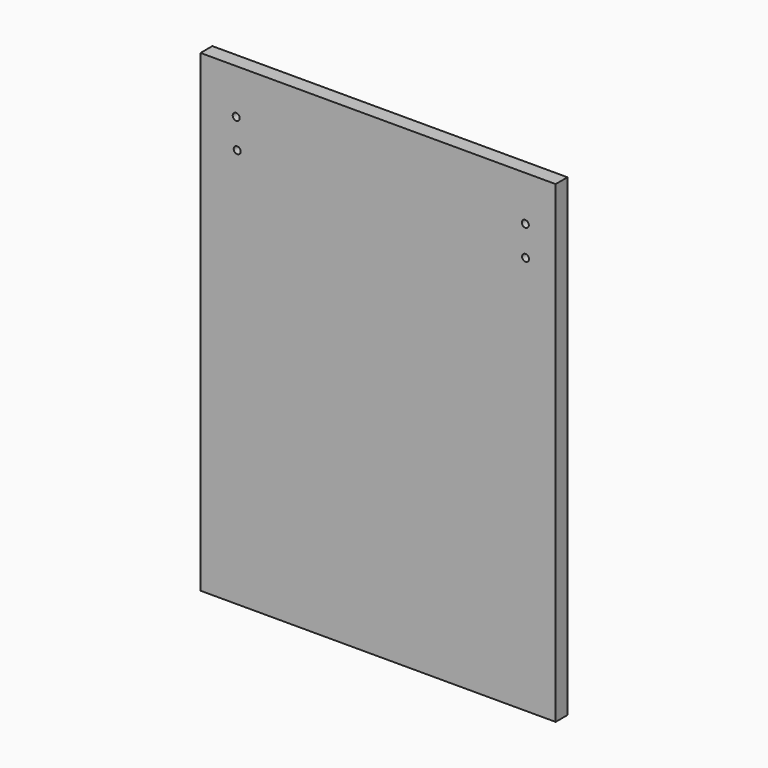
from build123d import *

# Parameters (mm, degrees)
F0_W      = 152.4
F0_H      = 203.2
F1_DEPTH  = 6.35
F3_R      = 1.5
F5_DEPTH  = 6.35
F4_R      = 1.5
F6_DEPTH  = 6.35
F8_R      = 1.5
F10_DEPTH = 6.35
F9_R      = 1.5
F11_DEPTH = 6.35


with BuildPart() as f1:
    # F0 (on Front) → F1 (new body)
    with BuildSketch(Plane.XZ):
        Rectangle(F0_W, F0_H)
    extrude(amount=F1_DEPTH)

    # F3 (on face) → F5 (cut)
    with BuildSketch(Plane.XZ.offset(6.35)):
        with Locations((-60.88084, 82.436591)):
            Circle(F3_R)
    extrude(amount=-F5_DEPTH, mode=Mode.SUBTRACT)

    # F4 (on face) → F6 (cut)
    with BuildSketch(Plane.XZ.offset(6.35)):
        with Locations((-60.457505, 69.948263)):
            Circle(F4_R)
    extrude(amount=-F6_DEPTH, mode=Mode.SUBTRACT)

    # F8 (on face) → F10 (cut)
    with BuildSketch(Plane.XZ.offset(6.35)):
        with Locations((63.192599, 82.348317)):
            Circle(F8_R)
    extrude(amount=-F10_DEPTH, mode=Mode.SUBTRACT)

    # F9 (on face) → F11 (cut)
    with BuildSketch(Plane.XZ.offset(6.35)):
        with Locations((63.281596, 69.53305)):
            Circle(F9_R)
    extrude(amount=-F11_DEPTH, mode=Mode.SUBTRACT)


solid = f1.part
